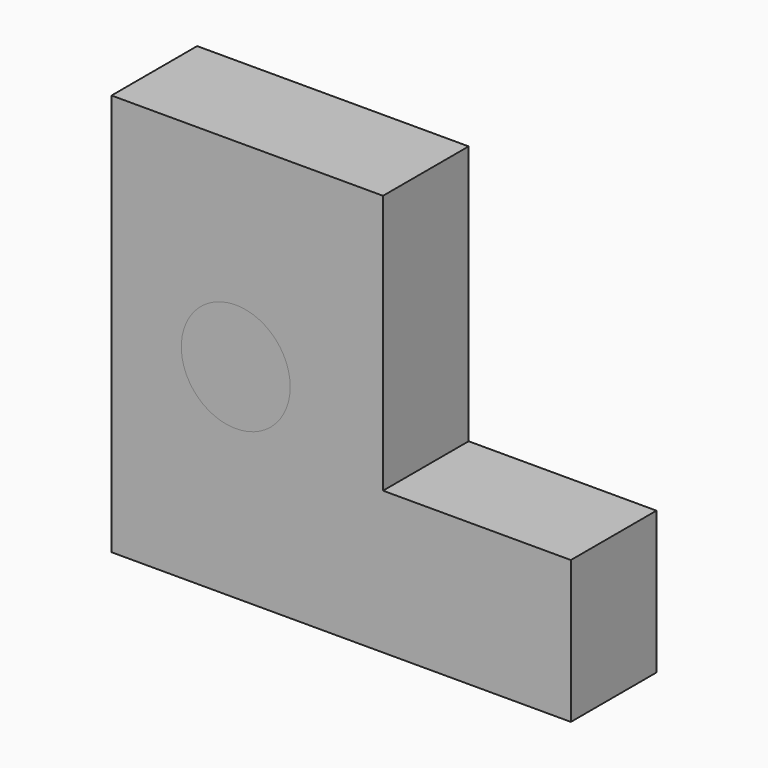
from build123d import *

# Parameters (mm, degrees)
F2_DEPTH = 10.9368255362
F1_R     = 5.5646247605


with BuildPart() as f2:
    # F0 (on Front) → F2 (new body)
    with BuildSketch(Plane.XZ):
        Polygon((0, 41.094481945), (0, 0), (46.9436943531, 0), (46.9436943531, 14.5638883114), (27.7469903231, 14.5638883114), (27.7469903231, 41.094481945), align=None)
    extrude(amount=-F2_DEPTH)


with BuildPart() as f2b:
    # F1 (on Front) → F2, piece 2 (new body)
    with BuildSketch(Plane.XZ):
        with Locations((12.6951634884, 20.8141207695)):
            Circle(F1_R)
    extrude(amount=-F2_DEPTH)


solid = Compound([f2.part, f2b.part])
